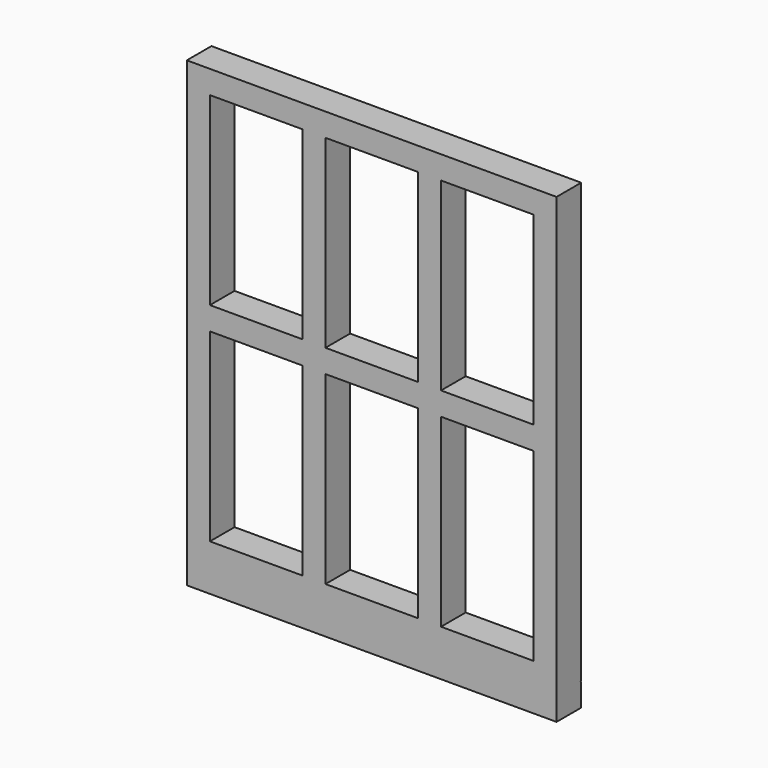
from build123d import *

# Parameters (mm, degrees)
F0_W     = 304.8
F0_H     = 361.95
F0_W_2   = 76.2
F0_H_2   = 152.4
F0_H_3   = 19.05
F1_DEPTH = 25.4
F3_DEPTH = 304.801


with BuildPart() as f1:
    # F0 (on Front) → F1 (new body)
    with BuildSketch(Plane.XZ):
        with Locations((0, 27.289911)):
            Rectangle(F0_W, F0_H)
        with Locations((-95.25, -58.435089)):
            Rectangle(F0_W_2, F0_H_2, mode=Mode.SUBTRACT)
        with Locations((0, -58.435089)):
            Rectangle(F0_W_2, F0_H_2, mode=Mode.SUBTRACT)
        with Locations((95.25, -58.435089)):
            Rectangle(F0_W_2, F0_H_2, mode=Mode.SUBTRACT)
        with Locations((-95.25, 113.014911)):
            Rectangle(F0_W_2, F0_H_2, mode=Mode.SUBTRACT)
        with Locations((0, 113.014911)):
            Rectangle(F0_W_2, F0_H_2, mode=Mode.SUBTRACT)
        with Locations((95.25, 113.014911)):
            Rectangle(F0_W_2, F0_H_2, mode=Mode.SUBTRACT)
        with Locations((0, -163.210089)):
            Rectangle(F0_W, F0_H_3)
    extrude(amount=F1_DEPTH)

    # F2 (on face) → F3 (cut, through all)
    with BuildSketch(Plane.YZ.offset(152.4)):
        with BuildLine():
            Line((0, -154.19948), (0, -153.143139))
            ThreePointArc((0, -153.143139), (-0.52817, -153.671309), (0, -154.19948))
        make_face()
    extrude(amount=-F3_DEPTH, mode=Mode.SUBTRACT)


solid = f1.part
